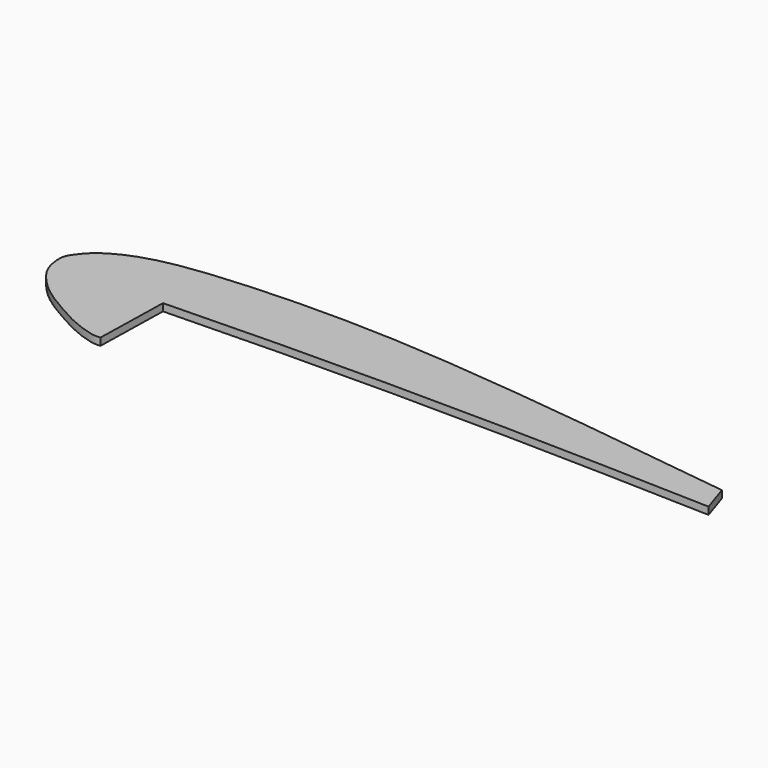
from build123d import *

# Parameters (mm, degrees)
F1_DEPTH = 2.2


with BuildPart() as f1:
    # F0 (on Top) → F1 (new body)
    with BuildSketch(Plane.XY):
        with BuildLine():
            Line((36.411922425, -44.9234545231), (36.9460396469, -22.0408048481))
            add(Edge.make_bspline(
                [(36.9460396469, -22.0408048481), (91.6213393211, -20.3670039773), (136.7396712303, -20.6583924592), (201.971963048, -22.8254552931)],
                knots=[0, 0, 0, 0, 165.0277887833, 165.0277887833, 165.0277887833, 165.0277887833], degree=3))
            Line((201.971963048, -22.8254552931), (199.1802603006, -14.2907965928))
            add(Edge.make_bspline(
                [(199.1802603006, -14.2907965928), (161.7838024669, -9.3806652772), (98.8905067097, -1.1228152311), (48.9574962921, -2.2209972129), (26.0027556378, -4.5642221522), (15.1933556956, -7.9017056774), (8.2913126756, -11.7535662204), (4.9847959903, -15.9265522777), (3.40403681, -18.4452460876), (4.0683706249, -24.320403391), (6.7666114964, -28.7137109319), (12.2573549705, -34.4363574684), (20.6850918001, -39.2588462932), (26.3726595523, -42.4766443034), (32.0275374455, -44.5523372009), (34.9204973536, -45.0702833405), (35.9764728526, -44.9663239551), (36.411922425, -44.9234545231)],
                knots=[0, 0, 0, 0, 0.2034102143, 0.3420949339, 0.4343987692, 0.4999364838, 0.5551108915, 0.5997292328, 0.6332080747, 0.6796192335, 0.7249411326, 0.7807022279, 0.8428621307, 0.8946216004, 0.9430211623, 0.976503801, 1, 1, 1, 1], degree=3))
        make_face()
    extrude(amount=F1_DEPTH)


solid = f1.part
